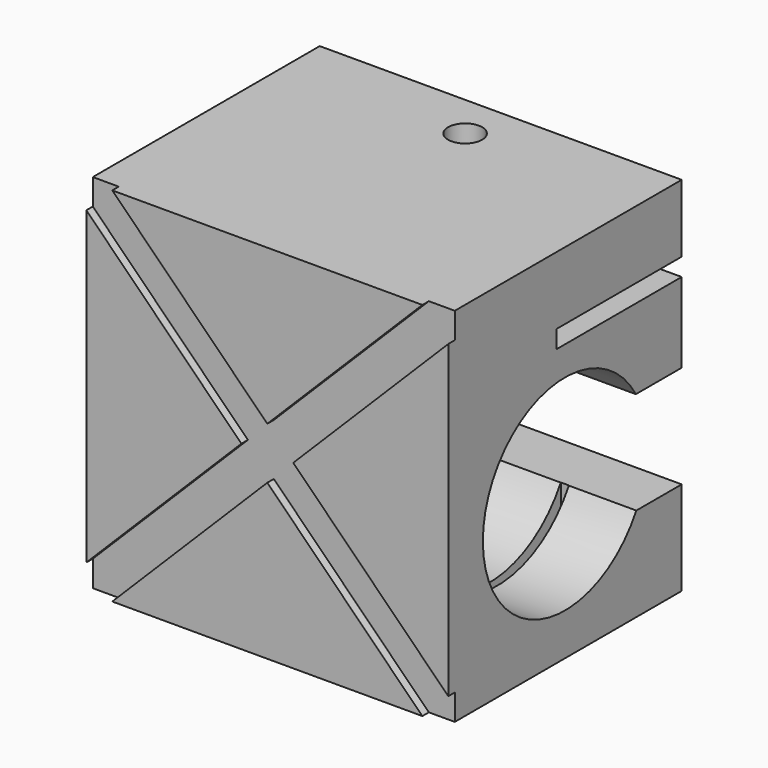
from build123d import *

# Parameters (mm, degrees)
F0_W          = 1701.8
F0_H          = 1701.8
F1_DEPTH      = 685.8
F1_DEPTH_BACK = 685.8
F3_R          = 482.6
F5_DEPTH      = 1778
F4_W          = 741.2019371986
F4_H          = 241.3
F6_DEPTH      = 1778
F7_W          = 762
F7_H          = 83.82
F8_DEPTH      = 1778
F10_DEPTH     = 38.1
F12_R         = 80.01
F13_DEPTH     = 320.04
F15_W         = 38.1
F15_H         = 1016
F16_DEPTH     = 304.8


with BuildPart() as f1:
    # F0 (on Front) → F1 (new body, two sides)
    with BuildSketch(Plane.XZ) as f1_sk:
        Rectangle(F0_W, F0_H)
    extrude(amount=F1_DEPTH)
    extrude(f1_sk.sketch, amount=-F1_DEPTH_BACK)

    # F3 (on face) → F5 (cut)
    with BuildSketch(Plane.YZ.offset(850.9)):
        with Locations((0, -170.704353589)):
            Circle(F3_R)
    extrude(amount=-F5_DEPTH, mode=Mode.SUBTRACT)

    # F4 (on face) → F6 (cut)
    with BuildSketch(Plane.YZ.offset(850.9)):
        with Locations((370.6009685993, -47.7492743492)):
            Rectangle(F4_W, F4_H)
        Polygon((741.2019371986, -168.3992743492), (0, -168.3992743492), (0, -409.6992743492), (741.8479657151, -409.6992743492), (741.8479657151, -168.3992743492), align=None)
    extrude(amount=-F6_DEPTH, mode=Mode.SUBTRACT)

    # F7 (on face) → F8 (cut)
    with BuildSketch(Plane.YZ.offset(850.9)):
        with Locations((330.9977193773, 490.6306193733)):
            Rectangle(F7_W, F7_H)
    extrude(amount=-F8_DEPTH, mode=Mode.SUBTRACT)

    # F9 (on face) → F10 (cut)
    with BuildSketch(Plane.XZ.offset(685.8)):
        Polygon((850.9, 728.98), (850.9, 850.9), (728.98, 850.9), (0, 121.92), (121.92, 0), align=None)
        Polygon((850.9, -728.98), (121.92, 0), (0, -121.92), (728.98, -850.9), (850.9, -850.9), align=None)
        Polygon((0, -121.92), (121.92, 0), (0, 121.92), (-121.92, 0), align=None)
        Polygon((-121.92, 0), (0, 121.92), (-728.98, 850.9), (-850.9, 850.9), (-850.9, 728.98), align=None)
        Polygon((-728.98, -850.9), (0, -121.92), (-121.92, 0), (-850.9, -728.98), (-850.9, -850.9), align=None)
    extrude(amount=-F10_DEPTH, mode=Mode.SUBTRACT)

    # F12 (on face) → F13 (cut)
    with BuildSketch(Plane.XY.offset(850.9)):
        with Locations((0, 476.8736362457)):
            Circle(F12_R)
    extrude(amount=-F13_DEPTH, mode=Mode.SUBTRACT)

    # F15 (on face) → F16 (cut)
    with BuildSketch(Plane.XY.offset(-409.6992743492)):
        with Locations((514.6490952492, -87.3333351612)):
            Rectangle(F15_W, F15_H)
        with Locations((-552.4504163742, -88.7147324085)):
            Rectangle(F15_W, F15_H)
    extrude(amount=-F16_DEPTH, mode=Mode.SUBTRACT)


solid = f1.part
